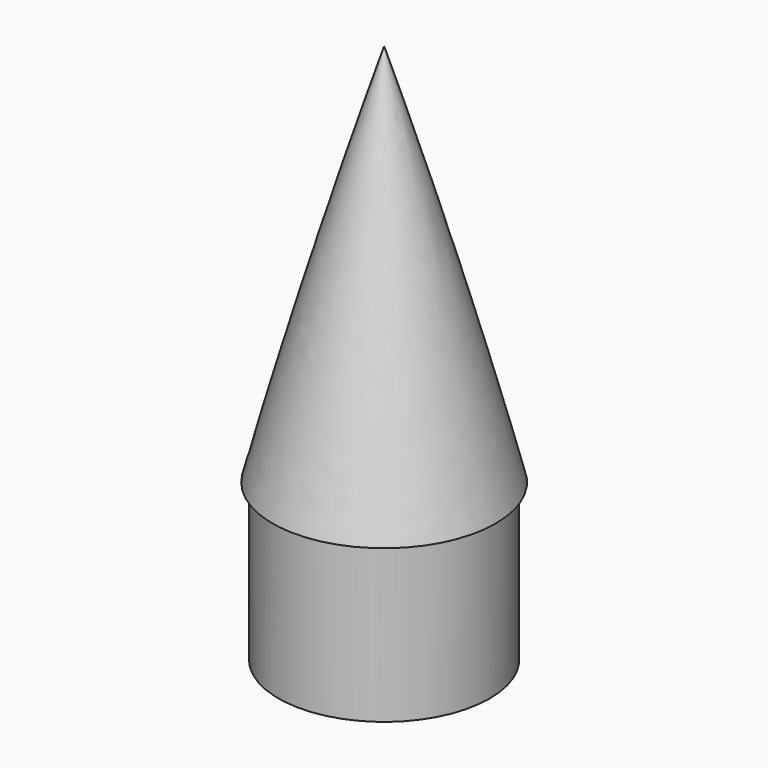
from build123d import *


with BuildPart() as f1:
    # F0 (on Front) → F1 (revolve)
    with BuildSketch(Plane.XZ):
        with BuildLine():
            Line((0, 70), (0, 66.711532))
            ThreePointArc((0, 66.711532), (4.175774, 52.909339), (8.005624, 39.007186))
            Line((8.005624, 39.007186), (7.8, 39.007186))
            Line((7.8, 39.007186), (7.8, 25.007186))
            Line((7.8, 25.007186), (8.8, 25.007186))
            Line((8.8, 25.007186), (8.8, 38.007186))
            Line((8.8, 38.007186), (9.3, 38.007186))
            ThreePointArc((9.3, 38.007186), (4.880372, 54.07056), (0, 70))
        make_face()
    revolve(axis=Axis((0, 0, 35), (0, 0, 1)))


solid = f1.part
